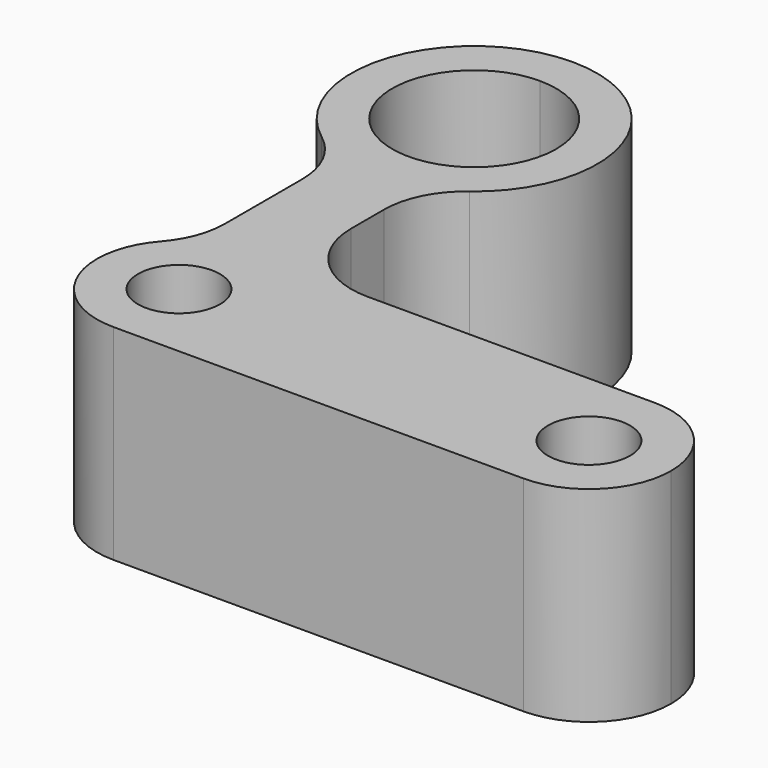
from build123d import *

# Parameters (mm, degrees)
F0_R     = 5
F1_DEPTH = 25


with BuildPart() as f1:
    # F0 (on Top) → F1 (new body)
    with BuildSketch(Plane.XY):
        with BuildLine():
            ThreePointArc((-39.075493, -44.384187), (-36.146561, -51.455255), (-29.075493, -54.384187))
            Line((-29.075493, -54.384187), (20.924507, -54.384187))
            ThreePointArc((20.924507, -54.384187), (27.995575, -51.455255), (30.924507, -44.384187))
            ThreePointArc((30.924507, -44.384187), (27.995575, -37.313119), (20.924507, -34.384187))
            Line((20.924507, -34.384187), (7.75616, -34.384187))
            Line((7.75616, -34.384187), (-14.075493, -34.384187))
            ThreePointArc((-14.075493, -34.384187), (-21.146561, -31.455255), (-24.075493, -24.384187))
            Line((-24.075493, -24.384187), (-24.075493, -22.920936))
            Line((-24.075493, -22.920936), (-24.075493, -19.384187))
            ThreePointArc((-24.075493, -19.384187), (-23.019765, -14.912051), (-20.075493, -11.384187))
            ThreePointArc((-20.075493, -11.384187), (-14.845244, 5.35923), (-29.075493, 15.615813))
            ThreePointArc((-29.075493, 15.615813), (-43.305743, 5.35923), (-38.075493, -11.384187))
            ThreePointArc((-38.075493, -11.384187), (-35.131221, -14.912051), (-34.075493, -19.384187))
            Line((-34.075493, -19.384187), (-34.075493, -22.920936))
            Line((-34.075493, -22.920936), (-34.075493, -31.15543))
            ThreePointArc((-34.075493, -31.15543), (-34.72135, -34.690964), (-36.575493, -37.769809))
            ThreePointArc((-36.575493, -37.769809), (-38.429637, -40.848653), (-39.075493, -44.384187))
        make_face()
        with Locations((-29.075493, -44.384187)):
            Circle(F0_R, mode=Mode.SUBTRACT)
        with Locations((20.924507, -44.392578)):
            Circle(F0_R, mode=Mode.SUBTRACT)
        with BuildLine():
            ThreePointArc((-19.075493, 0.615813), (-36.146561, -6.455255), (-29.075493, 10.615813))
            ThreePointArc((-29.075493, 10.615813), (-22.004425, 7.686881), (-19.075493, 0.615813))
        make_face(mode=Mode.SUBTRACT)
    extrude(amount=F1_DEPTH)


solid = f1.part
